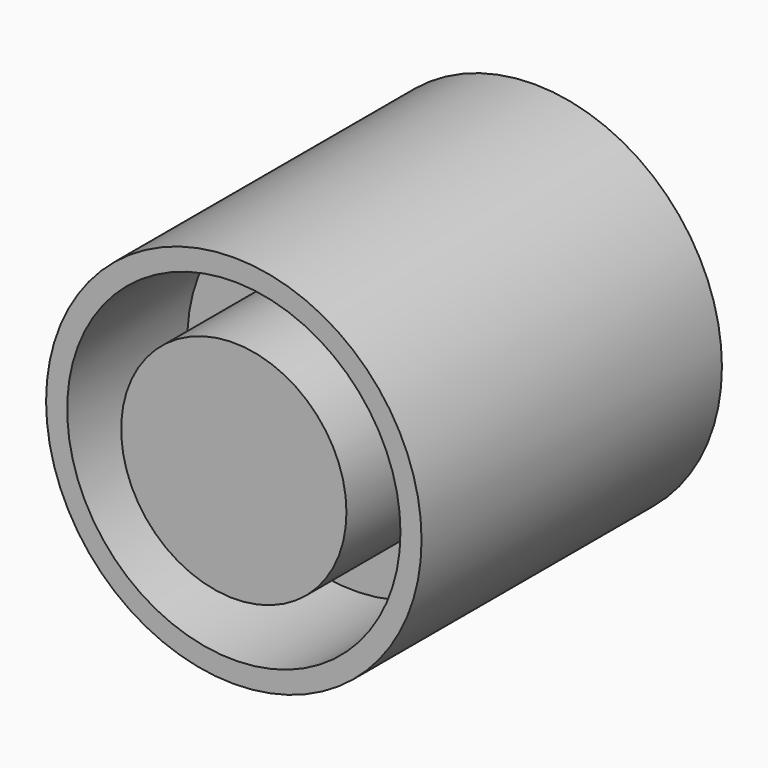
from build123d import *

# Parameters (mm, degrees)
F0_R     = 31.75
F1_DEPTH = 63.5
F2_R     = 29.21
F3_DEPTH = 31.75
F4_R     = 28.182549
F4_R_2   = 19.05
F5_DEPTH = 25.4


with BuildPart() as f1:
    # F0 (on Front) → F1 (new body)
    with BuildSketch(Plane.XZ):
        Circle(F0_R)
    extrude(amount=F1_DEPTH)

    # F2 (on Front) → F3 (cut)
    with BuildSketch(Plane.XZ):
        Circle(F2_R)
    extrude(amount=F3_DEPTH, mode=Mode.SUBTRACT)

    # F4 (on face) → F5 (cut)
    with BuildSketch(Plane.XZ.offset(63.5)):
        Circle(F4_R)
        Circle(F4_R_2, mode=Mode.SUBTRACT)
    extrude(amount=-F5_DEPTH, mode=Mode.SUBTRACT)


solid = f1.part
